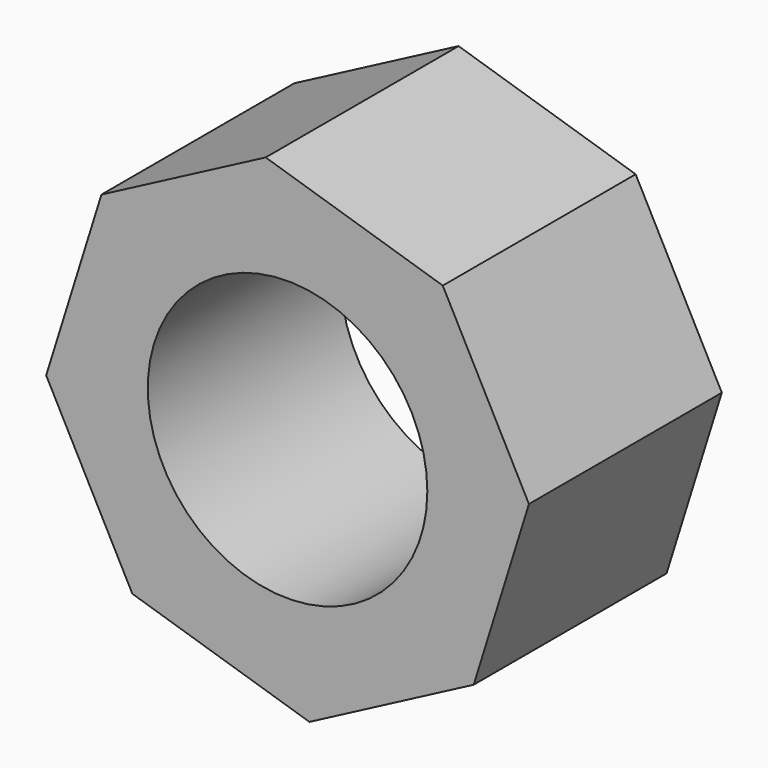
from build123d import *

# Parameters (mm, degrees)
F0_R     = 14.725537
F1_DEPTH = 12.7


with BuildPart() as f1:
    # F0 (on Front) → F1 (new body, symmetric)
    with BuildSketch(Plane.XZ):
        Polygon((-19.607809, 16.352809), (-25.427997, -2.301632), (-16.352809, -19.607809), (2.301632, -25.427997), (19.607809, -16.352809), (25.427997, 2.301632), (16.352809, 19.607809), (-2.301632, 25.427997), align=None)
        Circle(F0_R, mode=Mode.SUBTRACT)
    extrude(amount=F1_DEPTH, both=True)


solid = f1.part
